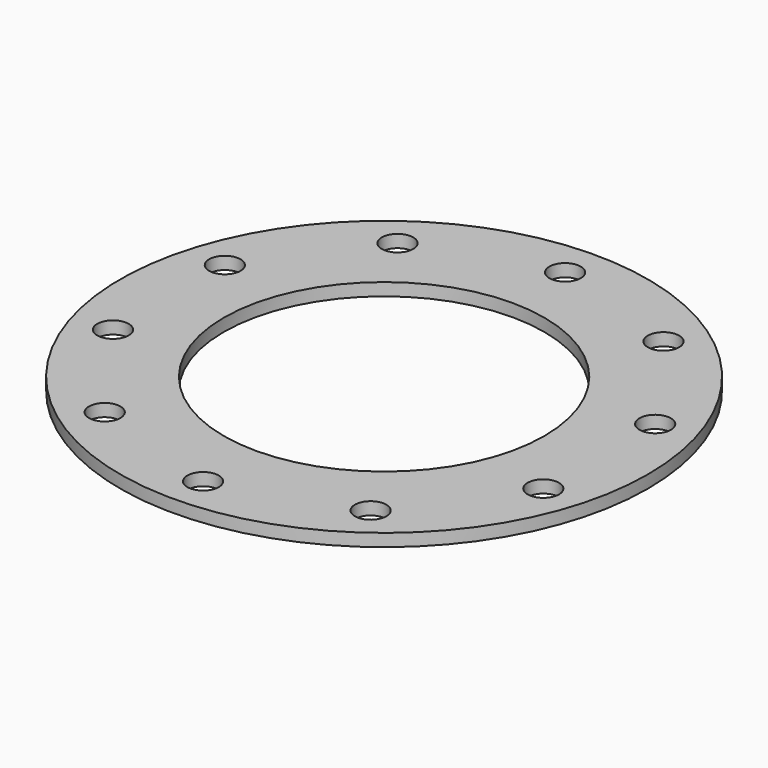
from build123d import *

# Parameters (mm, degrees)
F0_R     = 266.7
F0_R_2   = 161.925
F1_DEPTH = 12.7
F2_R     = 15.875
F3_DEPTH = 15.875


with BuildPart() as f1:
    # F0 (on Top) → F1 (new body)
    with BuildSketch(Plane.XY):
        Circle(F0_R)
        Circle(F0_R_2, mode=Mode.SUBTRACT)
    extrude(amount=F1_DEPTH)

    # F2 (on Top) → F3 (cut)
    with BuildSketch(Plane.XY):
        with Locations((0, 228.6)):
            Circle(F2_R)
        with Locations((-134.367709, 184.941285)):
            Circle(F2_R)
        with Locations((-217.41152, 70.641285)):
            Circle(F2_R)
        with Locations((-217.41152, -70.641285)):
            Circle(F2_R)
        with Locations((-134.367709, -184.941285)):
            Circle(F2_R)
        with Locations((0, -228.6)):
            Circle(F2_R)
        with Locations((134.367709, -184.941285)):
            Circle(F2_R)
        with Locations((217.41152, -70.641285)):
            Circle(F2_R)
        with Locations((217.41152, 70.641285)):
            Circle(F2_R)
        with Locations((134.367709, 184.941285)):
            Circle(F2_R)
    extrude(amount=F3_DEPTH, mode=Mode.SUBTRACT)


solid = f1.part
